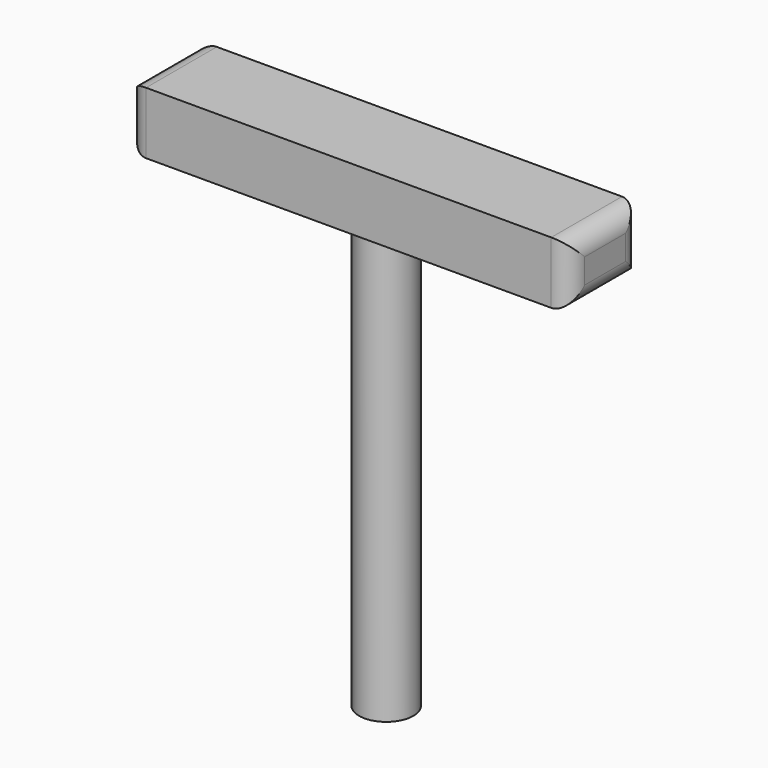
from build123d import *

# Parameters (mm, degrees)
F0_W     = 79.5655027032
F0_H     = 36.2267494202
F1_DEPTH = 12.7
F2_DEPTH = 12.7
F3_R     = 11.1269376105
F4_DEPTH = 177.8
F5_DEPTH = 50.8
F6_DEPTH = 50.8
F7_R     = 7.62
F8_R     = 7.62


with BuildPart() as f1:
    # F0 (on Top) → F1 (new body)
    with BuildSketch(Plane.XY):
        with Locations((-0.5556233227, -0.4444997758)):
            Rectangle(F0_W, F0_H)
    extrude(amount=F1_DEPTH)

    # F2 (add): a face of the model
    f2_faces = [f1.faces().sort_by_distance(p)[0] for p in [
        (-0.5556233227, -0.4444997758, 0),
    ]]
    extrude(f2_faces, amount=F2_DEPTH)

    # F3 (on face) → F4 (join)
    with BuildSketch(Plane(origin=(0, 0, -12.7), x_dir=(1, 0, 0), z_dir=(0, 0, -1))):
        Circle(F3_R)
    extrude(amount=F4_DEPTH)

    # F5 (add): a face of the model
    f5_faces = [f1.faces().sort_by_distance(p)[0] for p in [
        (-40.3383746743, -0.4444997758, 0),
    ]]
    extrude(f5_faces, amount=F5_DEPTH)

    # F6 (add): a face of the model
    f6_faces = [f1.faces().sort_by_distance(p)[0] for p in [
        (39.2271280289, -0.4444997758, 0),
    ]]
    extrude(f6_faces, amount=F6_DEPTH)

    # F7
    f7_edges = [f1.edges().sort_by_distance(p)[0] for p in [
        (90.027128, -0.4445, 12.7),
        (90.027128, 17.668875, 0),
        (90.027128, -0.4445, -12.7),
        (90.027128, -18.557874, 0),
    ]]
    fillet(f7_edges, radius=F7_R)

    # F8
    f8_edges = [f1.edges().sort_by_distance(p)[0] for p in [
        (-91.138375, 17.668875, 0),
        (-91.138375, -0.4445, 12.7),
        (-91.138375, -18.557874, 0),
        (-91.138375, -0.4445, -12.7),
    ]]
    fillet(f8_edges, radius=F8_R)


solid = f1.part
